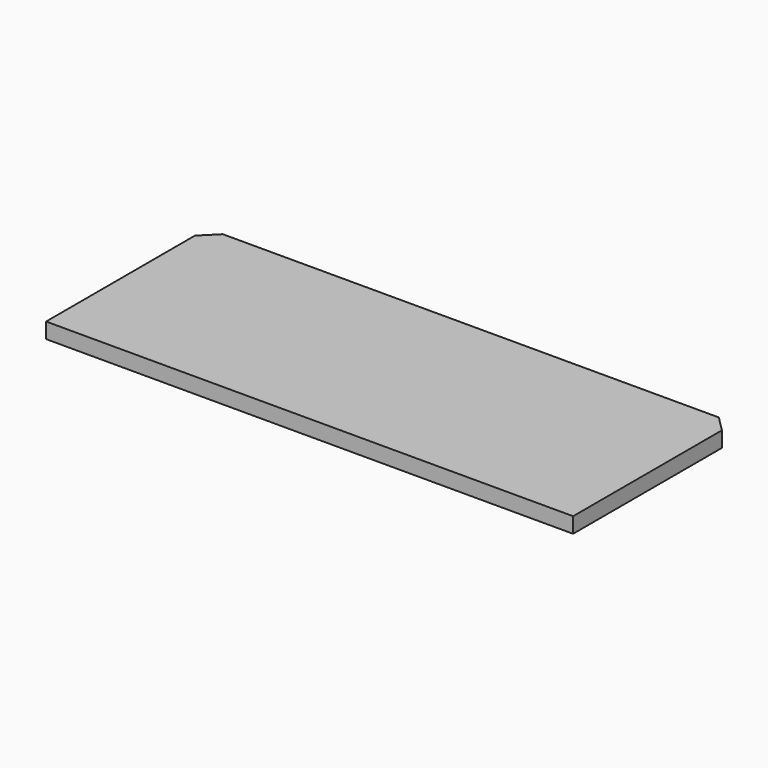
from build123d import *

# Parameters (mm, degrees)
BOX313_W        = 68
BOX313_H        = 26
BOX313_DEPTH    = 2
CHAMFER004_SIZE = 2
CHAMFER005_SIZE = 2


with BuildPart() as part:
    # Box313 → Box313 (new body)
    with BuildSketch(Plane(origin=(-34, 120, 80), x_dir=(1, 0, 0), z_dir=(0, 0, 1))):
        with Locations((34, 13)):
            Rectangle(BOX313_W, BOX313_H)
    extrude(amount=BOX313_DEPTH)

    # Chamfer004
    chamfer004_edges = [part.edges().sort_by_distance(p)[0] for p in [
        (-34, 146, 81),
    ]]
    chamfer(chamfer004_edges, length=CHAMFER004_SIZE)

    # Chamfer005
    chamfer005_edges = [part.edges().sort_by_distance(p)[0] for p in [
        (34, 146, 81),
    ]]
    chamfer(chamfer005_edges, length=CHAMFER005_SIZE)


solid = part.part
